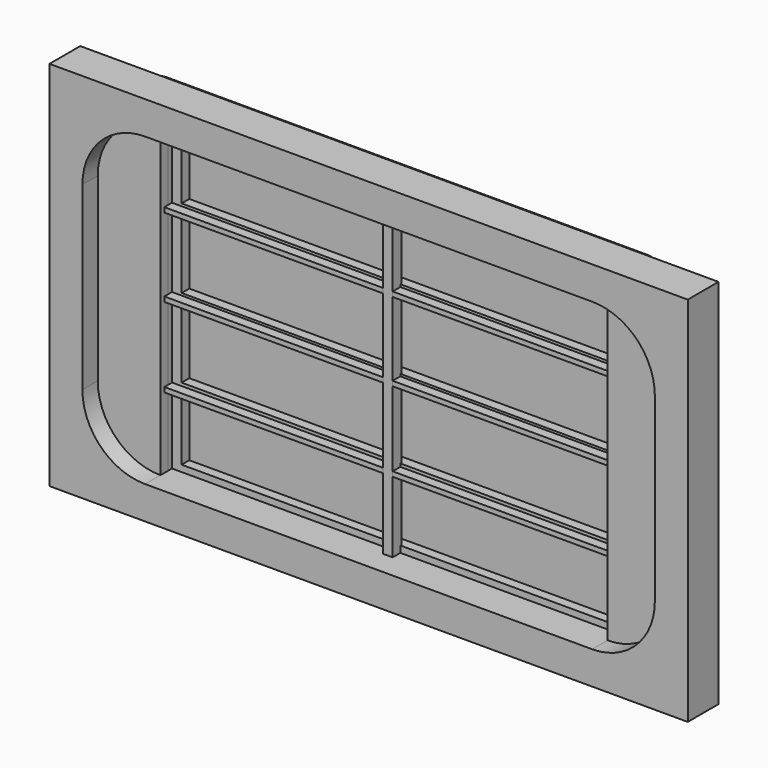
from build123d import *

# Parameters (mm, degrees)
F1_DEPTH  = 2.921
F2_W      = 194
F2_H      = 113
F3_DEPTH  = 11.684
F5_DEPTH  = 8.763
F6_W      = 135.9
F6_H      = 93
F7_DEPTH  = 4.3942
F9_W      = 2.921
F9_H      = 19.4544830424
F9_H_2    = 21.0566
F9_H_3    = 19.0374144417
F9_H_4    = 2.921
F9_H_5    = 1.6074169576
F9_H_6    = 2.0244855583
F10_DEPTH = 3.3147
F11_W     = 63.5685
F11_H     = 2.921
F11_H_2   = 1.9781446026
F11_W_2   = 2.921
F11_H_3   = 1.6074169576
F12_DEPTH = 2.921
F13_W     = 135.9
F13_H     = 1.4605
F14_DEPTH = 2.921
F15_DEPTH = 2.921


with BuildPart() as f1:
    # F0 (on Front) → F1 (new body)
    with BuildSketch(Plane.XZ):
        with BuildLine():
            ThreePointArc((79.375, 48.41875), (77.5151280605, 52.9088780605), (73.025, 54.76875))
            Line((73.025, 54.76875), (-73.025, 54.76875))
            ThreePointArc((-73.025, 54.76875), (-77.5151280605, 52.9088780605), (-79.375, 48.41875))
            Line((-79.375, 48.41875), (-79.375, -48.41875))
            ThreePointArc((-79.375, -48.41875), (-77.5151280605, -52.9088780605), (-73.025, -54.76875))
            Line((-73.025, -54.76875), (73.025, -54.76875))
            ThreePointArc((73.025, -54.76875), (77.5151280605, -52.9088780605), (79.375, -48.41875))
            Line((79.375, -48.41875), (79.375, 48.41875))
        make_face()
    extrude(amount=F1_DEPTH)

    # F2 (on face) → F3 (join)
    with BuildSketch(Plane.XZ.offset(2.921)):
        Rectangle(F2_W, F2_H)
    extrude(amount=F3_DEPTH)

    # F4 (on face) → F5 (cut)
    with BuildSketch(Plane.XZ.offset(14.605)):
        with BuildLine():
            Line((67.95, 46.5), (-67.95, 46.5))
            ThreePointArc((-67.95, 46.5), (-81.4203841816, 40.9203841816), (-87, 27.45))
            Line((-87, 27.45), (-87, -27.45))
            ThreePointArc((-87, -27.45), (-81.4203841816, -40.9203841816), (-67.95, -46.5))
            Line((-67.95, -46.5), (67.95, -46.5))
            ThreePointArc((67.95, -46.5), (81.4203841816, -40.9203841816), (87, -27.45))
            Line((87, -27.45), (87, 27.45))
            ThreePointArc((87, 27.45), (81.4203841816, 40.9203841816), (67.95, 46.5))
        make_face()
    extrude(amount=-F5_DEPTH, mode=Mode.SUBTRACT)

    # F6 (on face) → F7 (cut)
    with BuildSketch(Plane.XZ.offset(5.842)):
        Rectangle(F6_W, F6_H)
    extrude(amount=-F7_DEPTH, mode=Mode.SUBTRACT)


with BuildPart() as f10:
    # F9 (on offset) → F10 (new body)
    with BuildSketch(Plane.XZ.offset(4.0005)):
        with Locations((0, 35.1190005656)):
            Rectangle(F9_W, F9_H)
        with Locations((0, 11.9424590444)):
            Rectangle(F9_W, F9_H_2)
        with Locations((0, -12.0351409556)):
            Rectangle(F9_W, F9_H_2)
        with Locations((0, -35.0031481765)):
            Rectangle(F9_W, F9_H_3)
        with Locations((0, 23.9312590444)):
            Rectangle(F9_W, F9_H_4)
        with Locations((0, -0.0463409556)):
            Rectangle(F9_W, F9_H_4)
        with Locations((0, -24.0239409556)):
            Rectangle(F9_W, F9_H_4)
        with Locations((0, 45.6499505656)):
            Rectangle(F9_W, F9_H_5)
        with Locations((0, -45.5340981765)):
            Rectangle(F9_W, F9_H_6)
    extrude(amount=F10_DEPTH)


with BuildPart() as f12:
    # F11 (on face) → F12 (new body)
    with BuildSketch(Plane.XZ.offset(1.4478)):
        with Locations((-33.24475, 23.9312590444)):
            Rectangle(F11_W, F11_H)
        with Locations((-33.24475, -0.0463409556)):
            Rectangle(F11_W, F11_H)
        with Locations((-33.24475, -24.0239409556)):
            Rectangle(F11_W, F11_H)
        with Locations((-33.24475, -45.5109276987)):
            Rectangle(F11_W, F11_H_2)
        with Locations((-66.4895, -45.5109276987)):
            Rectangle(F11_W_2, F11_H_2)
        with Locations((0, -45.5109276987)):
            Rectangle(F11_W_2, F11_H_2)
        with Locations((33.24475, -45.5109276987)):
            Rectangle(F11_W, F11_H_2)
        with Locations((33.24475, -24.0239409556)):
            Rectangle(F11_W, F11_H)
        with Locations((33.24475, -0.0463409556)):
            Rectangle(F11_W, F11_H)
        with Locations((33.24475, 23.9312590444)):
            Rectangle(F11_W, F11_H)
        Polygon((67.95, 44.8462420868), (65.029, 44.8462420868), (65.029, 25.3917590444), (65.029, 22.4707590444), (65.029, 1.4141590444), (65.029, -1.5068409556), (65.029, -22.5634409556), (65.029, -25.4844409556), (65.029, -44.5218553974), (67.95, -44.5218553974), align=None)
        with Locations((33.24475, 45.6499505656)):
            Rectangle(F11_W, F11_H_3)
        with Locations((-33.24475, 45.6499505656)):
            Rectangle(F11_W, F11_H_3)
        with Locations((0, 23.9312590444)):
            Rectangle(F11_W_2, F11_H)
        with Locations((0, 45.6499505656)):
            Rectangle(F11_W_2, F11_H_3)
        with Locations((0, -0.0463409556)):
            Rectangle(F11_W_2, F11_H)
        with Locations((0, -24.0239409556)):
            Rectangle(F11_W_2, F11_H)
        with Locations((66.4895, -45.5109276987)):
            Rectangle(F11_W_2, F11_H_2)
        with Locations((66.4895, 45.6499505656)):
            Rectangle(F11_W_2, F11_H_3)
        with Locations((-66.4895, 45.6499505656)):
            Rectangle(F11_W_2, F11_H_3)
        Polygon((-65.029, 25.3917590444), (-65.029, 44.8462420868), (-67.95, 44.8462420868), (-67.95, -44.5218553974), (-65.029, -44.5218553974), (-65.029, -25.4844409556), (-65.029, -22.5634409556), (-65.029, -1.5068409556), (-65.029, 1.4141590444), (-65.029, 22.4707590444), align=None)
    extrude(amount=F12_DEPTH)


with BuildPart() as f14:
    # F13 (on face) → F14 (new body)
    with BuildSketch(Plane.XZ.offset(4.3688)):
        with Locations((0, 23.8960850984)):
            Rectangle(F13_W, F13_H)
    extrude(amount=F14_DEPTH)


with BuildPart() as f14b:
    # F13 (on face) → F14, piece 2 (new body)
    with BuildSketch(Plane.XZ.offset(4.3688)):
        Rectangle(F13_W, F13_H)
    extrude(amount=F14_DEPTH)


with BuildPart() as f14c:
    # F13 (on face) → F14, piece 3 (new body)
    with BuildSketch(Plane.XZ.offset(4.3688)):
        with Locations((0, -24.2199655622)):
            Rectangle(F13_W, F13_H)
    extrude(amount=F14_DEPTH)


with BuildPart() as f15:
    # F15 (new): a face of the model
    f15_faces = [f1.part.faces().sort_by_distance(p)[0] for p in [
        (-76.9670290883, -5.842, 0),
    ]]
    extrude(f15_faces, amount=F15_DEPTH)


with BuildPart() as f15b:
    # F15#2 (new): a face of the model
    f15_2_faces = [f1.part.faces().sort_by_distance(p)[0] for p in [
        (76.9670290883, -5.842, 0),
    ]]
    extrude(f15_2_faces, amount=F15_DEPTH)


solid = Compound([f1.part, f10.part, f12.part, f14.part, f14b.part, f14c.part, f15.part, f15b.part])
